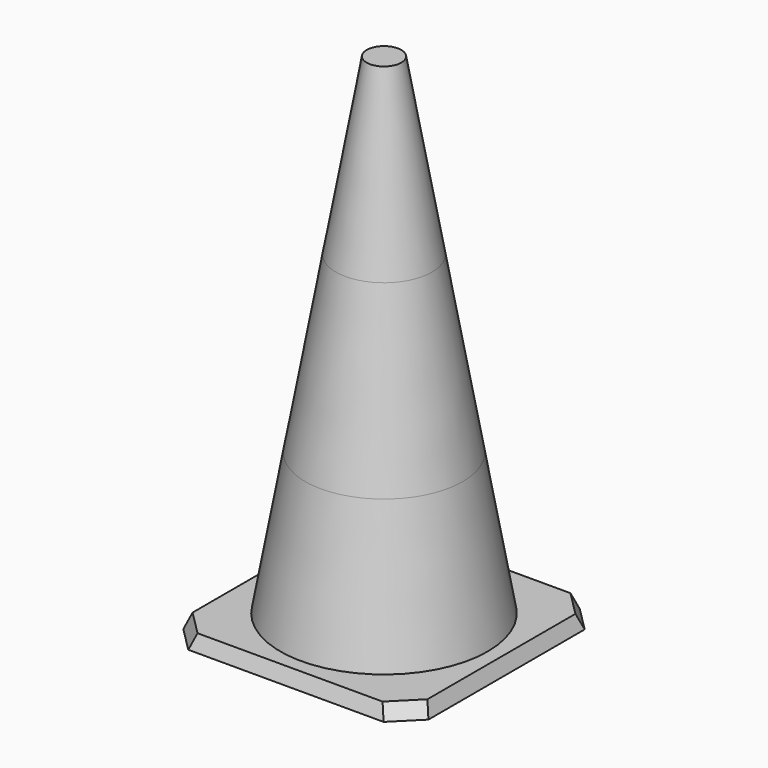
from build123d import *

# Parameters (mm, degrees)
SKETCH_W     = 520
SKETCH_H     = 520
PAD_DEPTH    = 30
PAD_TAPER    = 20
CHAMFER_SIZE = 50
SKETCH001_R  = 220
PAD001_DEPTH = 300
PAD001_TAPER = 10
SKETCH002_R  = 167.101906
PAD002_DEPTH = 370
PAD002_TAPER = 10
SKETCH003_R  = 101.860923
PAD003_DEPTH = 370
PAD003_TAPER = 10


with BuildPart() as part:
    # Sketch → Pad (new body)
    with BuildSketch(Plane.XY):
        with Locations((260, -260)):
            Rectangle(SKETCH_W, SKETCH_H)
    extrude(amount=PAD_DEPTH, taper=PAD_TAPER)

    # Chamfer
    chamfer_edges = [part.edges().sort_by_distance(p)[0] for p in [
        (514.540446, -514.540446, 15),
        (514.540446, -5.459554, 15),
        (5.459554, -514.540446, 15),
        (5.459554, -5.459554, 15),
    ]]
    chamfer(chamfer_edges, length=CHAMFER_SIZE)

    # Sketch001 (on Face5 of Chamfer) → Pad001 (join)
    with BuildSketch(Plane.XY.offset(30)):
        with Locations((260, -260)):
            Circle(SKETCH001_R)
    extrude(amount=PAD001_DEPTH, taper=PAD001_TAPER)

    # Sketch002 (on Face12 of Pad001) → Pad002 (join)
    with BuildSketch(Plane.XY.offset(330)):
        with Locations((260, -260)):
            Circle(SKETCH002_R)
    extrude(amount=PAD002_DEPTH, taper=PAD002_TAPER)

    # Sketch003 (on Face13 of Pad002) → Pad003 (join)
    with BuildSketch(Plane.XY.offset(700)):
        with Locations((260, -260)):
            Circle(SKETCH003_R)
    extrude(amount=PAD003_DEPTH, taper=PAD003_TAPER)


solid = part.part
